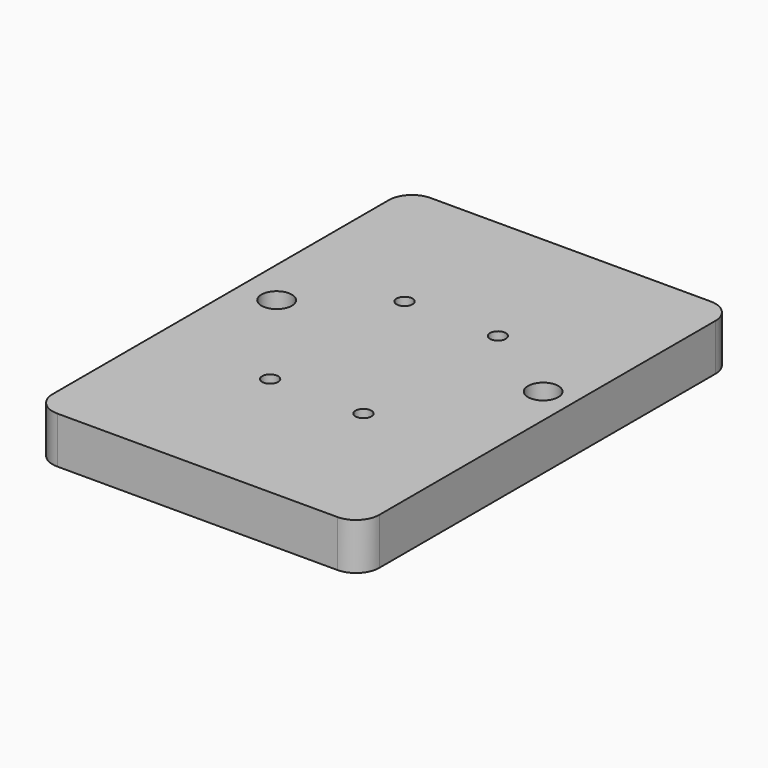
from build123d import *

# Parameters (mm, degrees)
SKETCH_W        = 70
SKETCH_H        = 100
PAD_DEPTH       = 10
SKETCH001_R     = 3.25
POCKET_DEPTH    = 10.001
SKETCH002_R     = 1.7
POCKET001_DEPTH = 10.001
FILLET_R        = 5


with BuildPart() as part:
    # Sketch → Pad (new body)
    with BuildSketch(Plane.XY):
        Rectangle(SKETCH_W, SKETCH_H)
    extrude(amount=PAD_DEPTH)

    # Sketch001 (on Face6 of Pad) → Pocket (cut, through all)
    with BuildSketch(Plane.XY.offset(10)):
        with Locations((-27, 5)):
            Circle(SKETCH001_R)
        with Locations((28.5, 7)):
            Circle(SKETCH001_R)
    extrude(amount=-POCKET_DEPTH, mode=Mode.SUBTRACT)

    # Sketch002 (on Face5 of Pocket) → Pocket001 (cut, through all)
    with BuildSketch(Plane.XY.offset(10)):
        with Locations((-10, 18)):
            Circle(SKETCH002_R)
        with Locations((10, 18)):
            Circle(SKETCH002_R)
        with Locations((10, -18)):
            Circle(SKETCH002_R)
        with Locations((-10, -18)):
            Circle(SKETCH002_R)
    extrude(amount=-POCKET001_DEPTH, mode=Mode.SUBTRACT)

    # Fillet
    fillet_edges = [part.edges().sort_by_distance(p)[0] for p in [
        (35, -50, 5),
        (-35, -50, 5),
        (35, 50, 5),
        (-35, 50, 5),
    ]]
    fillet(fillet_edges, radius=FILLET_R)


solid = part.part
